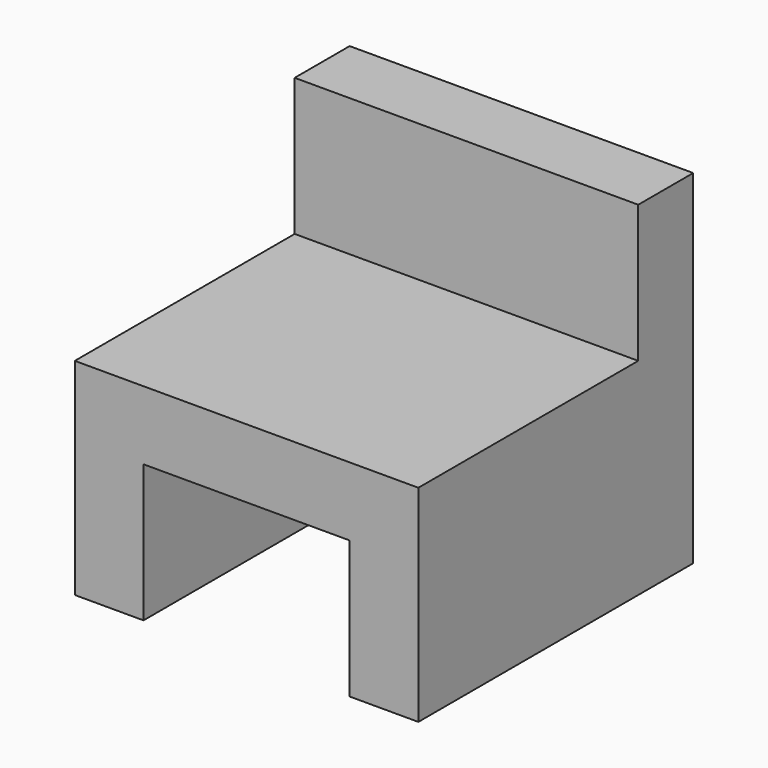
from build123d import *

# Parameters (mm, degrees)
F0_W     = 100
F0_H     = 100
F1_DEPTH = 100
F2_W     = 100
F2_H     = 80
F3_DEPTH = 40
F4_W     = 60
F4_H     = 40
F5_DEPTH = 2000


with BuildPart() as f1:
    # F0 (on Top) → F1 (new body)
    with BuildSketch(Plane.XY):
        Rectangle(F0_W, F0_H)
    extrude(amount=F1_DEPTH)

    # F2 (on face) → F3 (cut)
    with BuildSketch(Plane.XY.offset(100)):
        with Locations((0, -10)):
            Rectangle(F2_W, F2_H)
    extrude(amount=-F3_DEPTH, mode=Mode.SUBTRACT)

    # F4 (on face) → F5 (cut)
    with BuildSketch(Plane.XZ.offset(50)):
        with Locations((0, 20)):
            Rectangle(F4_W, F4_H)
    extrude(amount=-F5_DEPTH, mode=Mode.SUBTRACT)


solid = f1.part
